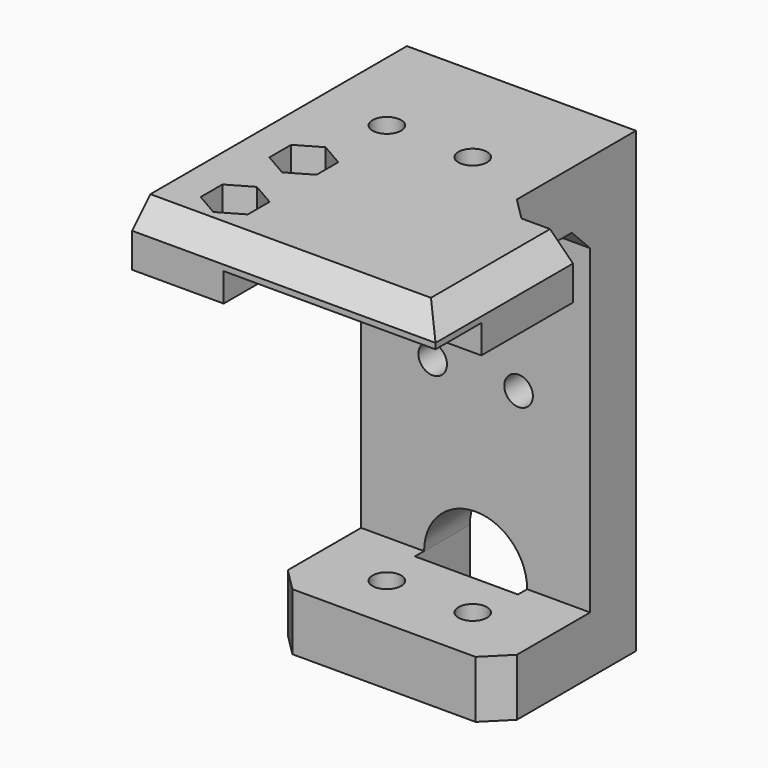
from build123d import *

# Parameters (mm, degrees)
SKETCH_W        = 40
SKETCH_H        = 80
PAD_DEPTH       = 10
SKETCH001_W     = 40
SKETCH001_H     = 10
PAD001_DEPTH    = 50
SKETCH002_R     = 2.5
POCKET_DEPTH    = 10
SKETCH003_R     = 2.5
POCKET001_DEPTH = 10
POCKET002_DEPTH = 5
SKETCH006_R     = 2.5
POCKET003_DEPTH = 84
SKETCH008_W     = 40
SKETCH008_H     = 30
POCKET005_DEPTH = 10
SKETCH010_W     = 10
SKETCH010_H     = 30
PAD002_DEPTH    = 13
POCKET006_DEPTH = 12
POCKET007_DEPTH = 5
SKETCH013_W     = 5
SKETCH013_H     = 10
POCKET008_DEPTH = 37
CHAMFER_SIZE    = 4


with BuildPart() as part:
    # Sketch → Pad (new body)
    with BuildSketch(Plane.XZ):
        Rectangle(SKETCH_W, SKETCH_H)
    extrude(amount=PAD_DEPTH)

    # Sketch001 (on Face6 of Pad) → Pad001 (join)
    with BuildSketch(Plane.XZ.offset(10)):
        with Locations((0, 35)):
            Rectangle(SKETCH001_W, SKETCH001_H)
        with Locations((0, -35)):
            Rectangle(SKETCH001_W, SKETCH001_H)
    extrude(amount=PAD001_DEPTH)

    # Sketch002 (on Face8 of Pad001) → Pocket (cut)
    with BuildSketch(Plane.XZ.offset(10)):
        with Locations((-7.5, 0)):
            Circle(SKETCH002_R)
        with Locations((7.5, 0)):
            Circle(SKETCH002_R)
    extrude(amount=-POCKET_DEPTH, mode=Mode.SUBTRACT)

    # Sketch003 (on Face5 of Pocket) → Pocket001 (cut)
    with BuildSketch(Plane(origin=(0, 0, 40), x_dir=(-1, 0, 0), z_dir=(0, 0, 1))):
        with Locations((10, 50)):
            Circle(SKETCH003_R)
        with Locations((10, 35)):
            Circle(SKETCH003_R)
    extrude(amount=-POCKET001_DEPTH, mode=Mode.SUBTRACT)

    # Sketch004 (on Face5 of Pocket001) → Pocket002 (cut)
    with BuildSketch(Plane(origin=(0, 0, 40), x_dir=(-1, 0, 0), z_dir=(0, 0, 1))):
        Polygon((14.113621, 47.625), (14.113621, 52.375), (10, 54.75), (5.886379, 52.375), (5.886379, 47.625), (10, 45.25), align=None)
        Polygon((14.113621, 32.625), (14.113621, 37.375), (10, 39.75), (5.886379, 37.375), (5.886379, 32.625), (10, 30.25), align=None)
    extrude(amount=-POCKET002_DEPTH, mode=Mode.SUBTRACT)

    # Sketch006 (on Face27 of Pocket002) → Pocket003 (cut)
    with BuildSketch(Plane(origin=(0, 0, -40), x_dir=(1, 0, 0), z_dir=(0, 0, -1))):
        with Locations((-7.5, 20)):
            Circle(SKETCH006_R)
        with Locations((7.5, 20)):
            Circle(SKETCH006_R)
    extrude(amount=-POCKET003_DEPTH, mode=Mode.SUBTRACT)

    # Sketch008 → Pocket005 (cut)
    with BuildSketch(Plane(origin=(0, 0, -40), x_dir=(1, 0, 0), z_dir=(0, 0, -1))):
        with Locations((0, 45)):
            Rectangle(SKETCH008_W, SKETCH008_H)
    extrude(amount=-POCKET005_DEPTH, mode=Mode.SUBTRACT)

    # Sketch010 → Pad002 (join)
    with BuildSketch(Plane(origin=(20, 0, 0), x_dir=(0, 0, 1), z_dir=(1, 0, 0))):
        with Locations((35, 45)):
            Rectangle(SKETCH010_W, SKETCH010_H)
    extrude(amount=PAD002_DEPTH)

    # Sketch011 → Pocket006 (cut)
    with BuildSketch(Plane(origin=(0, 0, 0), x_dir=(1, 0, 0), z_dir=(0, 1, 0))):
        with BuildLine():
            ThreePointArc((-9, 30), (0, 21), (9, 30))
            Line((9, 30), (9, 50))
            ThreePointArc((9, 50), (0, 59), (-9, 50))
            Line((-9, 50), (-9, 30))
        make_face()
    extrude(amount=-POCKET006_DEPTH, mode=Mode.SUBTRACT)

    # Sketch012 (on Face34 of Pocket006) → Pocket007 (cut)
    with BuildSketch(Plane(origin=(0, 0, -40), x_dir=(1, 0, 0), z_dir=(0, 0, -1))):
        Polygon((-2.75, 20), (-5.125, 24.113621), (-9.875, 24.113621), (-12.25, 20), (-9.875, 15.886379), (-5.125, 15.886379), align=None)
        Polygon((9.875, 15.886379), (12.25, 20), (9.875, 24.113621), (5.125, 24.113621), (2.75, 20), (5.125, 15.886379), align=None)
    extrude(amount=-POCKET007_DEPTH, mode=Mode.SUBTRACT)

    # Sketch013 (on Face41 of Pocket007) → Pocket008 (cut)
    with BuildSketch(Plane(origin=(33, 0, 0), x_dir=(0, 0, 1), z_dir=(1, 0, 0))):
        with Locations((32.5, 55)):
            Rectangle(SKETCH013_W, SKETCH013_H)
    extrude(amount=-POCKET008_DEPTH, mode=Mode.SUBTRACT)

    # Chamfer
    chamfer_edges = [part.edges().sort_by_distance(p)[0] for p in [
        (0, -10, 30),
        (20, -30, 35),
        (0, -60, 40),
        (26.5, -60, 40),
        (33, -45, 40),
        (20, -30, -35),
        (-20, -30, -35),
    ]]
    chamfer(chamfer_edges, length=CHAMFER_SIZE)


solid = part.part
